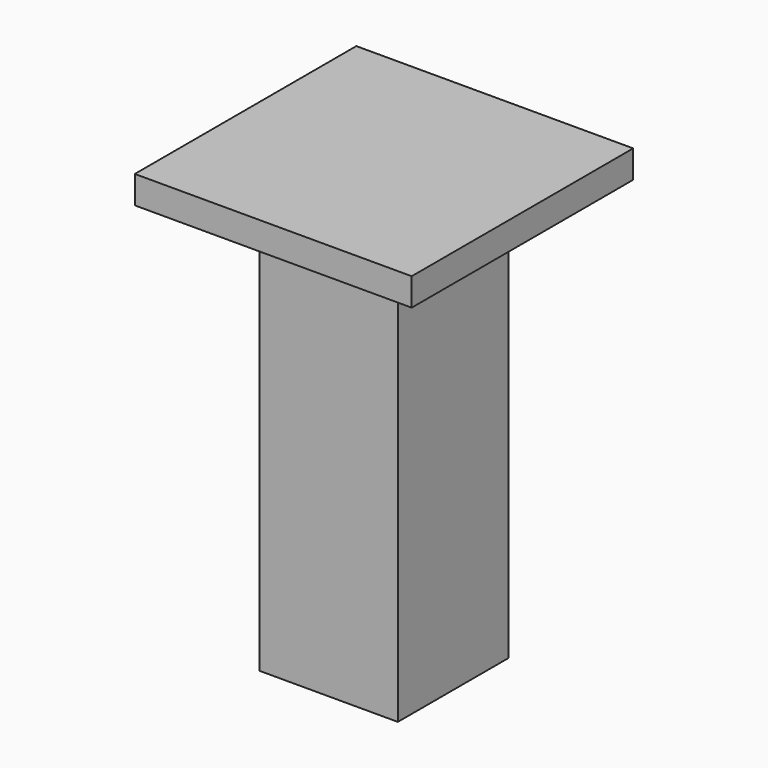
from build123d import *

# Parameters (mm, degrees)
F0_W     = 50
F0_H     = 50
F1_DEPTH = 150
F2_W     = 100
F2_H     = 100
F2_W_2   = 80
F2_H_2   = 80
F2_W_3   = 50
F2_H_3   = 50
F3_DEPTH = 10


with BuildPart() as f1:
    # F0 (on Top) → F1 (new body)
    with BuildSketch(Plane.XY):
        with Locations((1.8449090421, -1.6659224604)):
            Rectangle(F0_W, F0_H)
    extrude(amount=F1_DEPTH)

    # F2 (on face) → F3 (join)
    with BuildSketch(Plane.XY.offset(150)):
        with Locations((1.8449090421, -1.6659224604)):
            Rectangle(F2_W, F2_H)
        with Locations((1.8449090421, -1.6659224604)):
            Rectangle(F2_W_2, F2_H_2, mode=Mode.SUBTRACT)
        with Locations((1.8449090421, -1.6659224604)):
            Rectangle(F2_W_2, F2_H_2)
        with Locations((1.8449090421, -1.6659224604)):
            Rectangle(F2_W_3, F2_H_3, mode=Mode.SUBTRACT)
        with Locations((1.8449090421, -1.6659224604)):
            Rectangle(F2_W_3, F2_H_3)
    extrude(amount=F3_DEPTH)


solid = f1.part
